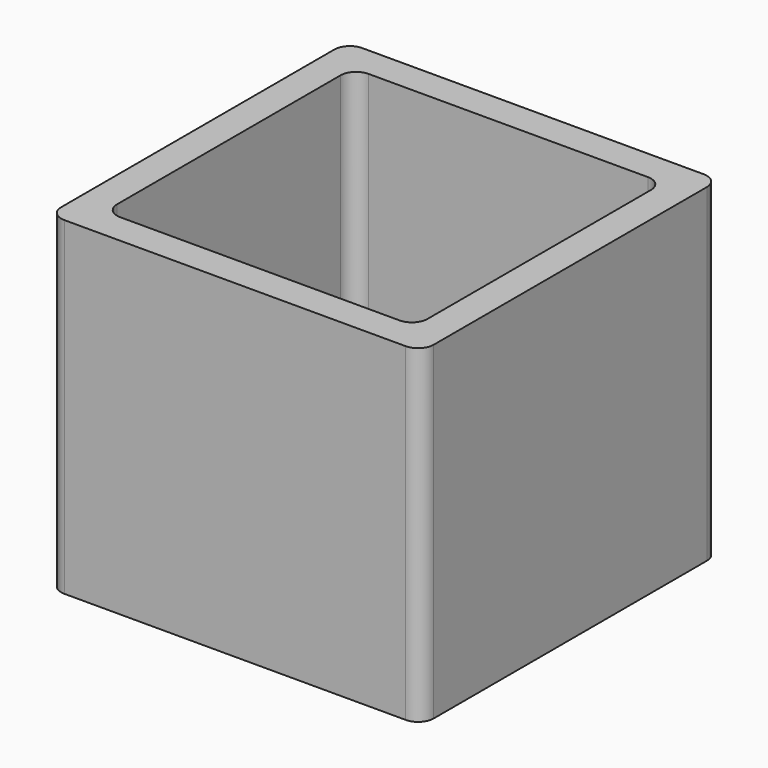
from build123d import *

# Parameters (mm, degrees)
F1_DEPTH = 6
F3_DEPTH = 100


with BuildPart() as f1:
    # F0 (on Top) → F1 (new body)
    with BuildSketch(Plane.XY):
        with BuildLine():
            ThreePointArc((60, 55), (58.535534, 58.535534), (55, 60))
            Line((55, 60), (-55, 60))
            ThreePointArc((-55, 60), (-58.535534, 58.535534), (-60, 55))
            Line((-60, 55), (-60, -55))
            ThreePointArc((-60, -55), (-58.535534, -58.535534), (-55, -60))
            Line((-55, -60), (55, -60))
            ThreePointArc((55, -60), (58.535534, -58.535534), (60, -55))
            Line((60, -55), (60, 55))
        make_face()
        with BuildLine():
            Line((-45, 50), (45, 50))
            ThreePointArc((45, 50), (48.535534, 48.535534), (50, 45))
            Line((50, 45), (50, -45))
            ThreePointArc((50, -45), (48.535534, -48.535534), (45, -50))
            Line((45, -50), (-45, -50))
            ThreePointArc((-45, -50), (-48.535534, -48.535534), (-50, -45))
            Line((-50, -45), (-50, 45))
            ThreePointArc((-50, 45), (-48.535534, 48.535534), (-45, 50))
        make_face(mode=Mode.SUBTRACT)
        with BuildLine():
            ThreePointArc((50, 45), (48.535534, 48.535534), (45, 50))
            Line((45, 50), (-45, 50))
            ThreePointArc((-45, 50), (-48.535534, 48.535534), (-50, 45))
            Line((-50, 45), (-50, -45))
            ThreePointArc((-50, -45), (-48.535534, -48.535534), (-45, -50))
            Line((-45, -50), (45, -50))
            ThreePointArc((45, -50), (48.535534, -48.535534), (50, -45))
            Line((50, -45), (50, 45))
        make_face()
    extrude(amount=F1_DEPTH)

    # F2 (on face) → F3 (join)
    with BuildSketch(Plane.XY.offset(6)):
        with BuildLine():
            ThreePointArc((-60, -55), (-58.535534, -58.535534), (-55, -60))
            Line((-55, -60), (55, -60))
            ThreePointArc((55, -60), (58.535534, -58.535534), (60, -55))
            Line((60, -55), (60, 55))
            ThreePointArc((60, 55), (58.535534, 58.535534), (55, 60))
            Line((55, 60), (-55, 60))
            ThreePointArc((-55, 60), (-58.535534, 58.535534), (-60, 55))
            Line((-60, 55), (-60, -55))
        make_face()
        with BuildLine():
            Line((-50, -45), (-50, 45))
            ThreePointArc((-50, 45), (-48.535534, 48.535534), (-45, 50))
            Line((-45, 50), (45, 50))
            ThreePointArc((45, 50), (48.535534, 48.535534), (50, 45))
            Line((50, 45), (50, -45))
            ThreePointArc((50, -45), (48.535534, -48.535534), (45, -50))
            Line((45, -50), (-45, -50))
            ThreePointArc((-45, -50), (-48.535534, -48.535534), (-50, -45))
        make_face(mode=Mode.SUBTRACT)
    extrude(amount=F3_DEPTH)


solid = f1.part
